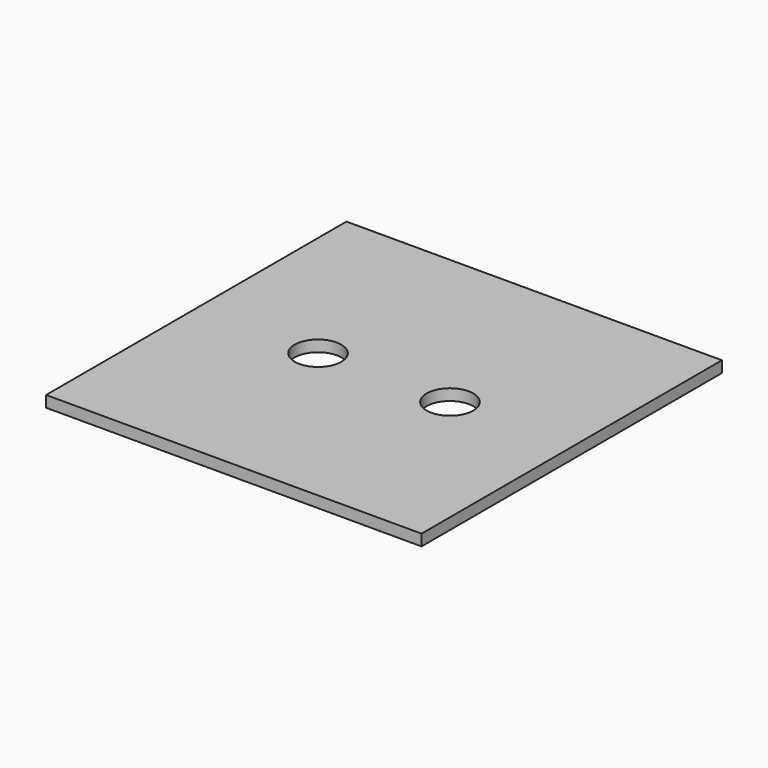
from build123d import *

# Parameters (mm, degrees)
F0_R     = 6.2
F1_DEPTH = 3


with BuildPart() as f1:
    # F0 (on Top) → F1 (new body)
    with BuildSketch(Plane.XY):
        Polygon((0, 50), (0, 0), (50, 0), (100, 0), (100, 100), (0, 100), align=None)
        with Locations((32.42135, 50)):
            Circle(F0_R, mode=Mode.SUBTRACT)
        with BuildLine():
            ThreePointArc((73.77865, 50), (67.57865, 43.8), (61.37865, 50))
            ThreePointArc((61.37865, 50), (67.57865, 56.2), (73.77865, 50))
        make_face(mode=Mode.SUBTRACT)
    extrude(amount=F1_DEPTH)


solid = f1.part
